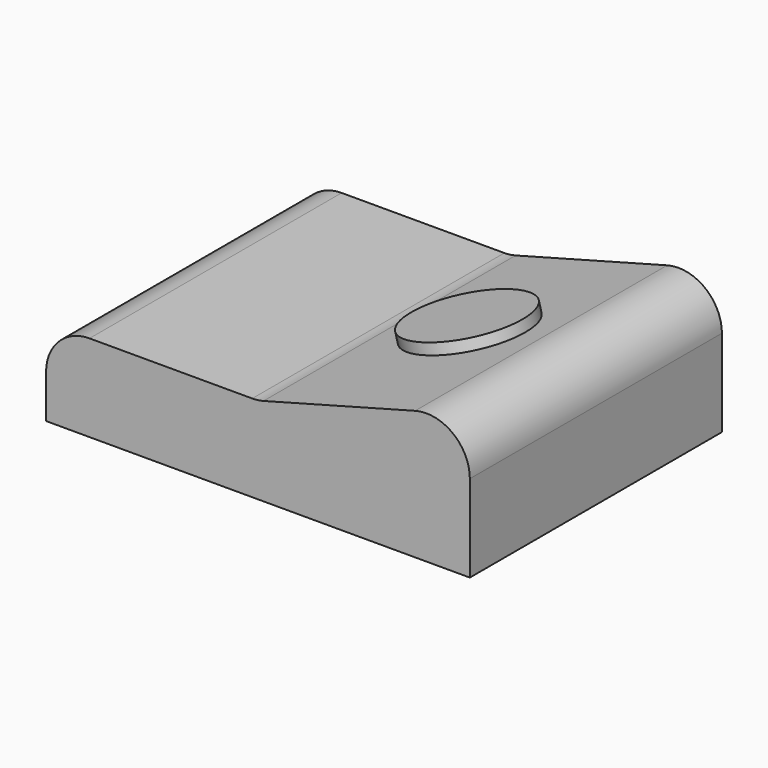
from build123d import *

# Parameters (mm, degrees)
F0_W     = 19.5
F0_H     = 14.5
F1_DEPTH = 4
F3_DEPTH = 14.5
F4_R     = 2
F5_R     = 2.6435709846
F6_DEPTH = 0.5


with BuildPart() as f1:
    # F0 (on Top) → F1 (new body)
    with BuildSketch(Plane.XY):
        with Locations((-3.0665891245, -0.4237584708)):
            Rectangle(F0_W, F0_H)
    extrude(amount=F1_DEPTH)

    # F2 (on face) → F3 (join)
    with BuildSketch(Plane.XZ.offset(7.6737584708)):
        Polygon((-3.0665891245, 4), (6.6834108755, 4), (6.6834108755, 6.6125046262), align=None)
    extrude(amount=-F3_DEPTH)

    # F4
    f4_edges = [f1.edges().sort_by_distance(p)[0] for p in [
        (-3.066589, -0.423758, 4),
        (6.683411, -0.423758, 6.612505),
        (-12.816589, -0.423758, 4),
    ]]
    fillet(f4_edges, radius=F4_R)


with BuildPart() as f6:
    # F5 (on face) → F6 (new body)
    with BuildSketch(Plane(origin=(-1.2054225199, 0, 4.4986980887), x_dir=(0.9659258263, 0, 0.2588190451), z_dir=(-0.2588190451, 0, 0.9659258263))):
        with Locations((1.8078176072, 0)):
            Circle(F5_R)
    extrude(amount=F6_DEPTH)


solid = Compound([f1.part, f6.part])
